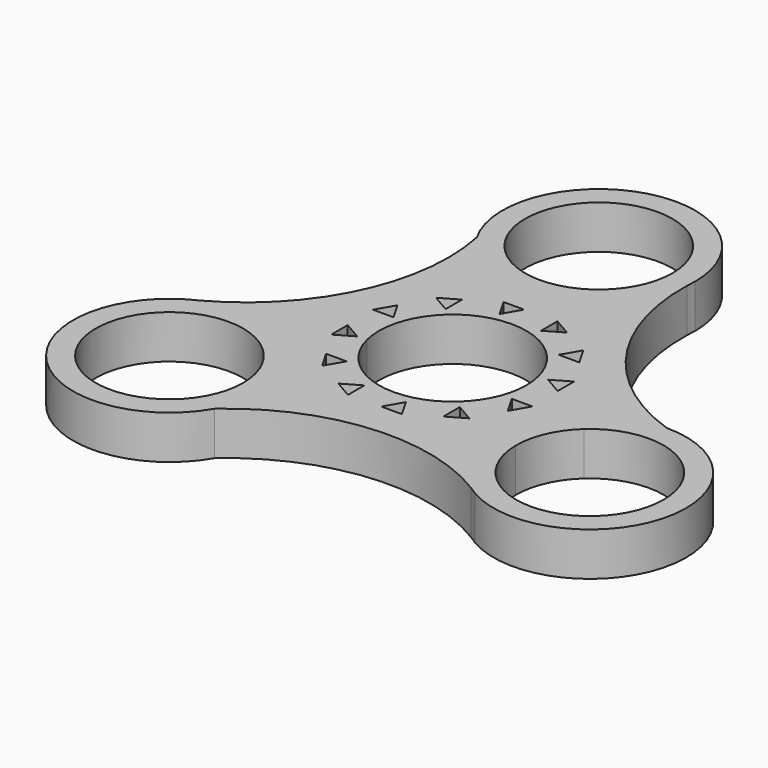
from build123d import *

# Parameters (mm, degrees)
F0_R     = 10.75
F1_DEPTH = 6.35


with BuildPart() as f1:
    # F0 (on Top) → F1 (new body)
    with BuildSketch(Plane.XY):
        with BuildLine():
            ThreePointArc((-16.446219, 24.955231), (-18.635535, 6.586639), (-31.317256, -6.880812))
            ThreePointArc((-31.317256, -6.880812), (-31.945446, -7.211903), (-32.581411, -7.527802))
            ThreePointArc((-32.581411, -7.527802), (-35.491262, -29.630309), (-13.388754, -26.720459))
            ThreePointArc((-13.388754, -26.720459), (3.613571, -19.432166), (21.617586, -23.681133))
            ThreePointArc((21.617586, -23.681133), (22.218414, -24.059617), (22.809974, -24.452429))
            ThreePointArc((22.809974, -24.452429), (43.406231, -15.921179), (29.834974, 1.765228))
            ThreePointArc((29.834974, 1.765228), (15.021964, 12.845527), (9.69967, 30.561945))
            ThreePointArc((9.69967, 30.561945), (9.727032, 31.271519), (9.771438, 31.980231))
            ThreePointArc((9.771438, 31.980231), (-7.91497, 45.551489), (-16.446219, 24.955231))
        make_face()
        with Locations((-25.556411, -19.695459)):
            Circle(F0_R, mode=Mode.SUBTRACT)
        Polygon((-8.926963, -8.174784), (-10.426963, -10.772861), (-11.926963, -8.174784), align=None, mode=Mode.SUBTRACT)
        Polygon((-3.643584, -11.543052), (-3.643584, -14.543052), (-6.241661, -13.043052), align=None, mode=Mode.SUBTRACT)
        Polygon((-11.818369, -2.61609), (-14.416445, -4.11609), (-14.416445, -1.11609), align=None, mode=Mode.SUBTRACT)
        Polygon((-11.543052, 3.643584), (-14.543052, 3.643584), (-13.043052, 6.241661), align=None, mode=Mode.SUBTRACT)
        with BuildLine():
            ThreePointArc((-10.42615, -2.618758), (-1.319353, 10.66873), (10.75, 0))
            ThreePointArc((10.75, 0), (1.319353, -10.66873), (-10.42615, -2.618758))
        make_face(mode=Mode.SUBTRACT)
        Polygon((2.61609, -11.818369), (4.11609, -14.416445), (1.11609, -14.416445), align=None, mode=Mode.SUBTRACT)
        Polygon((8.174784, -8.926963), (10.772861, -10.426963), (8.174784, -11.926963), align=None, mode=Mode.SUBTRACT)
        Polygon((11.543052, -3.643584), (14.543052, -3.643584), (13.043052, -6.241661), align=None, mode=Mode.SUBTRACT)
        Polygon((11.818369, 2.61609), (14.416445, 4.11609), (14.416445, 1.11609), align=None, mode=Mode.SUBTRACT)
        with BuildLine():
            ThreePointArc((22.592473, -4.340674), (34.176956, -2.450663), (40.584974, -12.284772))
            ThreePointArc((40.584974, -12.284772), (29.91008, -23.034509), (19.086023, -12.434981))
            ThreePointArc((19.086023, -12.434981), (19.970769, -8.011603), (22.592473, -4.340674))
        make_face(mode=Mode.SUBTRACT)
        Polygon((-8.174784, 8.926963), (-10.772861, 10.426963), (-8.174784, 11.926963), align=None, mode=Mode.SUBTRACT)
        Polygon((-2.61609, 11.818369), (-4.11609, 14.416445), (-1.11609, 14.416445), align=None, mode=Mode.SUBTRACT)
        with BuildLine():
            ThreePointArc((-7.0369, 21.590136), (-10.832583, 40.501224), (6.471438, 31.980231))
            ThreePointArc((6.471438, 31.980231), (5.19515, 26.89975), (1.669339, 23.025625))
            ThreePointArc((1.669339, 23.025625), (-2.52971, 21.37344), (-7.0369, 21.590136))
        make_face(mode=Mode.SUBTRACT)
        Polygon((8.926963, 8.174784), (10.426963, 10.772861), (11.926963, 8.174784), align=None, mode=Mode.SUBTRACT)
        Polygon((3.643584, 11.543052), (3.643584, 14.543052), (6.241661, 13.043052), align=None, mode=Mode.SUBTRACT)
    extrude(amount=F1_DEPTH)


solid = f1.part
